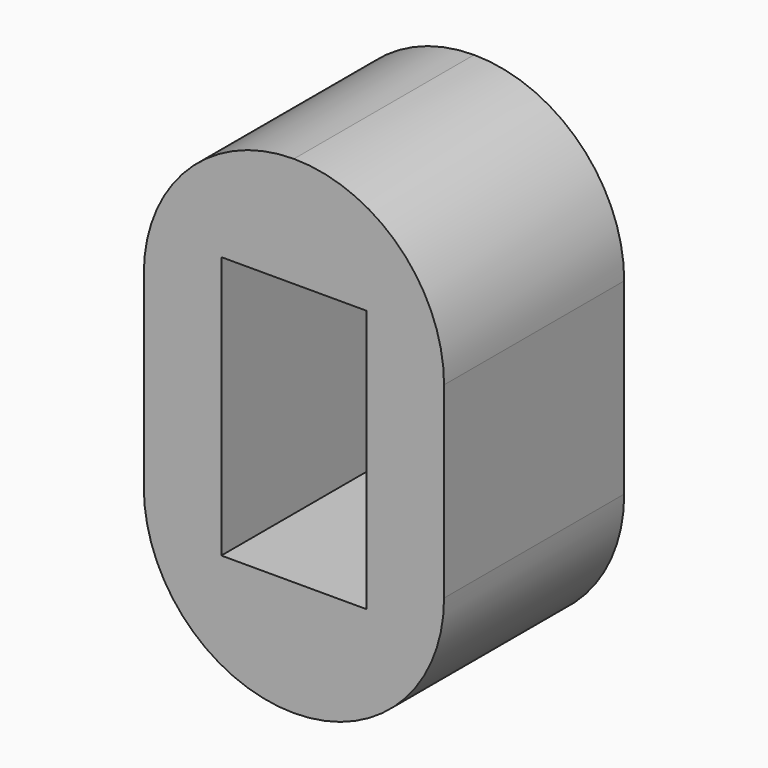
from build123d import *

# Parameters (mm, degrees)
F0_W     = 38.68904
F0_H     = 70
F1_DEPTH = 60


with BuildPart() as f1:
    # F0 (on Front) → F1 (new body)
    with BuildSketch(Plane.XZ):
        with BuildLine():
            ThreePointArc((-3.082677, 69.82396), (-31.366948, 58.108231), (-43.082677, 29.82396))
            Line((-43.082677, 29.82396), (-43.082677, -20.17604))
            ThreePointArc((-43.082677, -20.17604), (-3.082677, -60.17604), (36.917323, -20.17604))
            Line((36.917323, -20.17604), (36.917323, 29.82396))
            ThreePointArc((36.917323, 29.82396), (25.201594, 58.108231), (-3.082677, 69.82396))
        make_face()
        with Locations((-3.082677, 5.491615)):
            Rectangle(F0_W, F0_H, mode=Mode.SUBTRACT)
    extrude(amount=F1_DEPTH)


solid = f1.part
